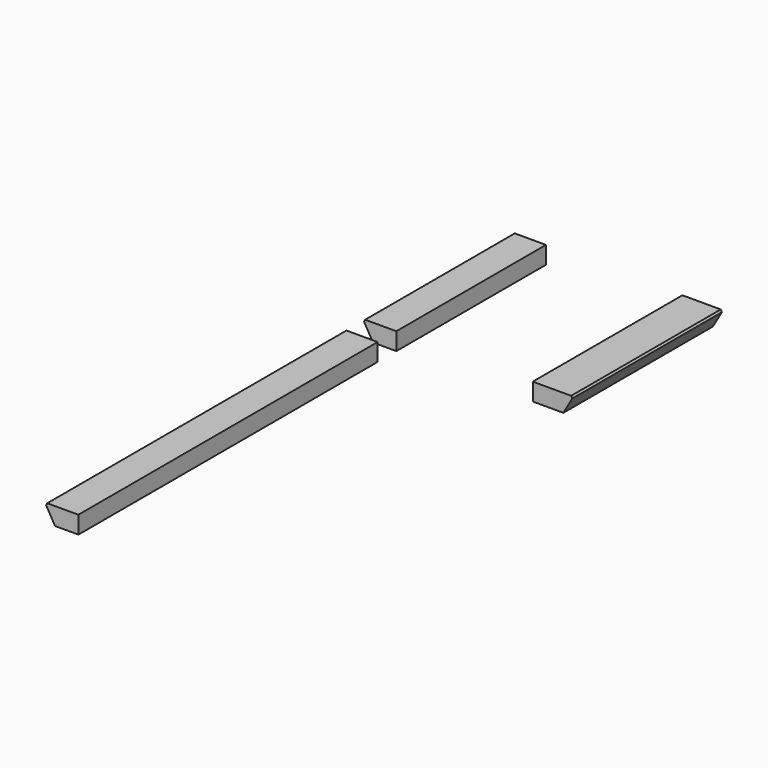
from build123d import *

# Parameters (mm, degrees)
F1_DEPTH   = 101.6
F2_DEPTH   = 101.6
F3_SIZE2   = 1.27
F3_SIZE    = 1.27
F3_2_SIZE2 = 1.27
F3_2_SIZE  = 1.27
F6_DEPTH   = 203.2


with BuildPart() as f1:
    # F0 (on Front) → F1 (new body)
    with BuildSketch(Plane.XZ):
        Polygon((-58.1323484187, 15.875), (-52.6330871047, 6.35), (-39.9330871047, 6.35), (-39.9330871047, 15.875), align=None)
    extrude(amount=F1_DEPTH)

    # F3
    f3_edges = [f1.edges().sort_by_distance(p)[0] for p in [
        (-58.132348, -50.8, 15.875),
    ]]
    chamfer(f3_edges, length=F3_SIZE, length2=F3_SIZE2)


with BuildPart() as f2:
    # F0 (on Front) → F2 (new body)
    with BuildSketch(Plane.XZ):
        Polygon((34.1884, 6.35), (50.8, 6.35), (56.299261314, 15.875), (34.1884, 15.875), align=None)
    extrude(amount=F2_DEPTH)

    # F3#2
    f3_2_edges = [f2.edges().sort_by_distance(p)[0] for p in [
        (56.299261, -50.8, 15.875),
    ]]
    chamfer(f3_2_edges, length=F3_2_SIZE, length2=F3_2_SIZE2)


with BuildPart() as f6:
    # F5 (on offset) → F6 (new body)
    with BuildSketch(Plane.XZ.offset(114.3)):
        Polygon((-39.9330871047, 6.35), (-39.9330871047, 15.875), (-56.8623484187, 15.875), (-57.4973484187, 14.7751477372), (-52.6330871047, 6.35), align=None)
    extrude(amount=F6_DEPTH)


solid = Compound([f1.part, f2.part, f6.part])
